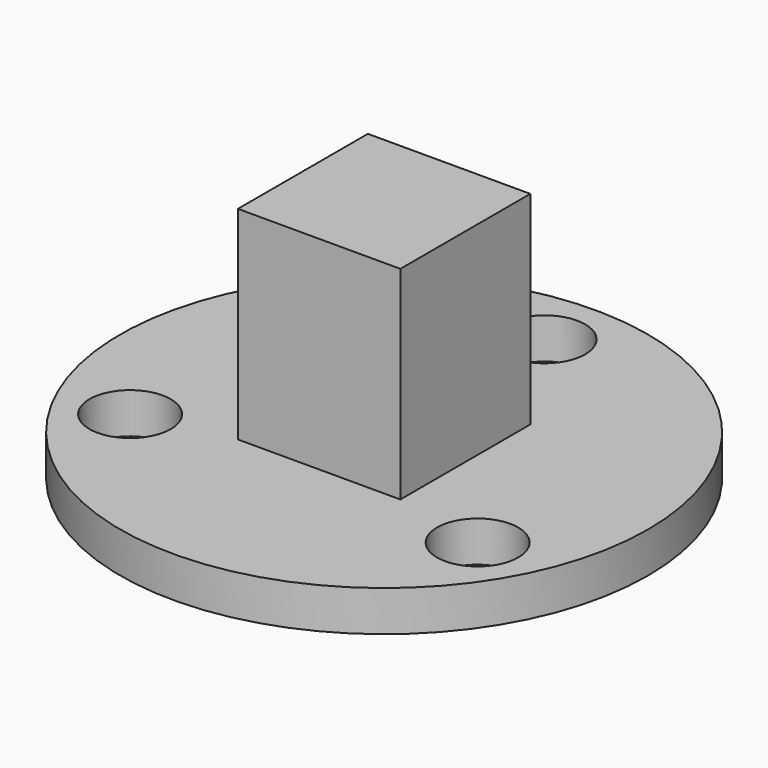
from build123d import *

# Parameters (mm, degrees)
F0_R     = 13
F1_DEPTH = 2
F2_W     = 8
F2_H     = 8
F3_DEPTH = 10
F4_R     = 2
F5_DEPTH = 25


with BuildPart() as f1:
    # F0 (on Top) → F1 (new body)
    with BuildSketch(Plane.XY):
        Circle(F0_R)
    extrude(amount=F1_DEPTH)

    # F2 (on face) → F3 (join)
    with BuildSketch(Plane.XY.offset(2)):
        Rectangle(F2_W, F2_H)
    extrude(amount=F3_DEPTH)

    # F4 (on face) → F5 (cut)
    with BuildSketch(Plane.XY.offset(2)):
        with Locations((0, 9.881104)):
            Circle(F4_R)
        with Locations((8.557287, -4.940552)):
            Circle(F4_R)
        with Locations((-8.557287, -4.940552)):
            Circle(F4_R)
    extrude(amount=-F5_DEPTH, mode=Mode.SUBTRACT)


solid = f1.part
